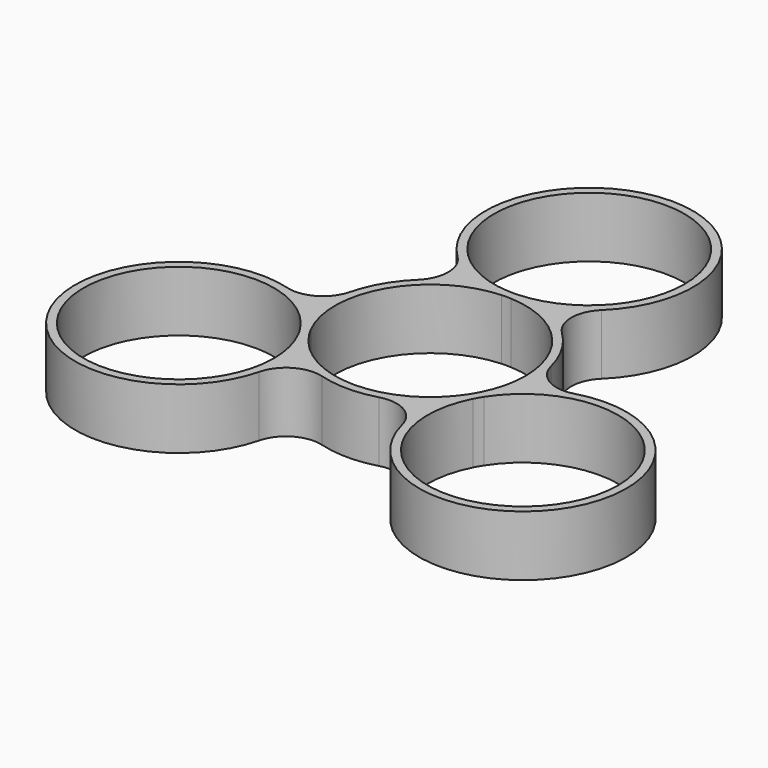
from build123d import *

# Parameters (mm, degrees)
F1_DEPTH = 7


with BuildPart() as f1:
    # F0 (on Top) → F1 (new body)
    with BuildSketch(Plane.XY):
        with BuildLine():
            ThreePointArc((8.343223, 8.625), (7.124298, 11.5), (8.343223, 14.375))
            ThreePointArc((8.343223, 14.375), (0, 35), (-8.343223, 14.375))
            ThreePointArc((-8.343223, 14.375), (-7.124298, 11.5), (-8.343223, 8.625))
            ThreePointArc((-8.343223, 8.625), (-10.392305, 6), (-11.641081, 2.912943))
            ThreePointArc((-11.641081, 2.912943), (-13.521441, 0.419823), (-16.620727, 0.037943))
            ThreePointArc((-16.620727, 0.037943), (-30.310889, -17.5), (-8.277504, -14.412943))
            ThreePointArc((-8.277504, -14.412943), (-6.397143, -11.919823), (-3.297857, -11.537943))
            ThreePointArc((-3.297857, -11.537943), (0, -12), (3.297857, -11.537943))
            ThreePointArc((3.297857, -11.537943), (6.397143, -11.919823), (8.277504, -14.412943))
            ThreePointArc((8.277504, -14.412943), (30.310889, -17.5), (16.620727, 0.037943))
            ThreePointArc((16.620727, 0.037943), (13.521441, 0.419823), (11.641081, 2.912943))
            ThreePointArc((11.641081, 2.912943), (10.392305, 6), (8.343223, 8.625))
        make_face()
        with BuildLine():
            ThreePointArc((-10.114012, -6.458078), (-9.203034, -8.906237), (-8.893584, -11.5))
            ThreePointArc((-8.893584, -11.5), (-30.495404, -14.611511), (-10.649865, -5.529952))
            ThreePointArc((-10.649865, -5.529952), (-10.370654, -5.9875), (-10.114012, -6.458078))
        make_face(mode=Mode.SUBTRACT)
        with BuildLine():
            ThreePointArc((10.649865, -5.529952), (23.030095, -0.92318), (30.943584, -11.5))
            ThreePointArc((30.943584, -11.5), (17.324822, -22.21555), (10.114012, -6.458078))
            ThreePointArc((10.114012, -6.458078), (10.370654, -5.9875), (10.649865, -5.529952))
        make_face(mode=Mode.SUBTRACT)
        with BuildLine():
            ThreePointArc((0.535854, 11.01197), (7.983057, 7.60404), (11.025, 0))
            ThreePointArc((11.025, 0), (10.71555, -2.593763), (9.804573, -5.041922))
            ThreePointArc((9.804573, -5.041922), (9.54793, -5.5125), (9.268719, -5.970048))
            ThreePointArc((9.268719, -5.970048), (0, -11.025), (-9.268719, -5.970048))
            ThreePointArc((-9.268719, -5.970048), (-9.54793, -5.5125), (-9.804573, -5.041922))
            ThreePointArc((-9.804573, -5.041922), (-9.54793, 5.5125), (-0.535854, 11.01197))
            ThreePointArc((-0.535854, 11.01197), (0, 11.025), (0.535854, 11.01197))
        make_face(mode=Mode.SUBTRACT)
        with BuildLine():
            ThreePointArc((-0.535854, 11.98803), (-7.60404, 30.983057), (11.025, 23))
            ThreePointArc((11.025, 23), (7.983057, 15.39596), (0.535854, 11.98803))
            ThreePointArc((0.535854, 11.98803), (0, 11.975), (-0.535854, 11.98803))
        make_face(mode=Mode.SUBTRACT)
    extrude(amount=F1_DEPTH)


solid = f1.part
